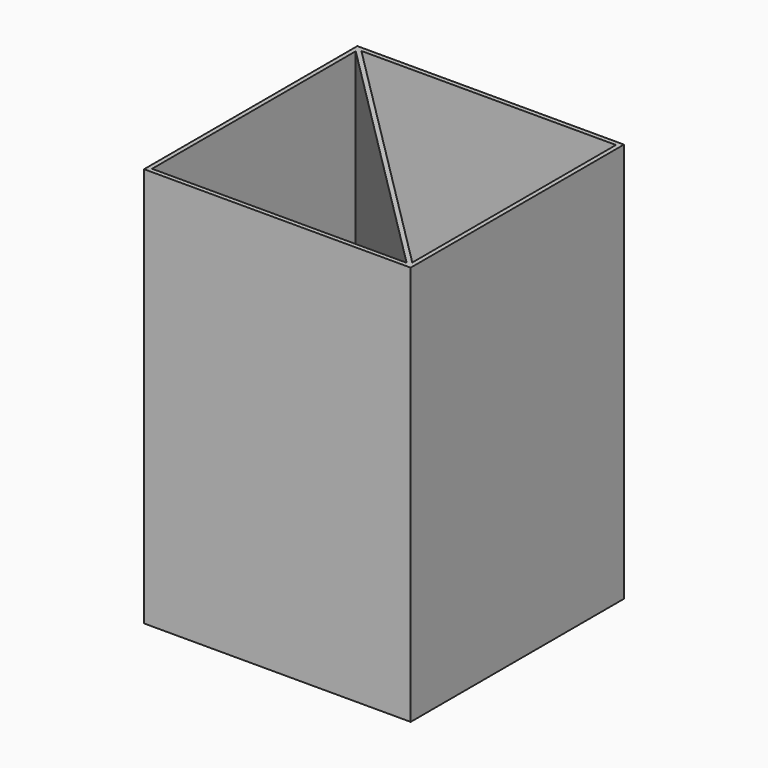
from build123d import *

# Parameters (mm, degrees)
F1_DEPTH = 2.54
F2_DEPTH = 114.3


with BuildPart() as f1:
    # F0 (on Top) → F1 (new body)
    with BuildSketch(Plane.XY):
        Polygon((35.9319743879, -36.83), (-36.83, 35.9319743879), (-36.83, -36.83), align=None)
    extrude(amount=F1_DEPTH)



with BuildPart() as f1b:
    # F0 (on Top) → F1, piece 2 (new body)
    with BuildSketch(Plane.XY):
        Polygon((36.83, 36.83), (-35.9319743879, 36.83), (36.83, -35.9319743879), align=None)
    extrude(amount=F1_DEPTH)


with BuildPart() as f1_1:
    add(f1.part)

    add(f1b.part)  # F2 merges F1b
    # F0 (on Top) → F2 (join)
    with BuildSketch(Plane.XY):
        with BuildLine():
            Line((-37.465, 38.1), (-38.1, 38.1))
            Line((-38.1, 38.1), (-38.1, 37.465))
            ThreePointArc((-38.1, 37.465), (-37.6509871939, 37.6509871939), (-37.465, 38.1))
        make_face()
        with BuildLine():
            Line((-37.2019743879, 38.1), (-37.465, 38.1))
            ThreePointArc((-37.465, 38.1), (-37.6509871939, 37.6509871939), (-38.1, 37.465))
            Line((-38.1, 37.465), (-38.1, 37.2019743879))
            Line((-38.1, 37.2019743879), (-36.83, 35.9319743879))
            Line((-36.83, 35.9319743879), (-36.83, 36.83))
            Line((-36.83, 36.83), (-35.9319743879, 36.83))
            Line((-35.9319743879, 36.83), (-37.2019743879, 38.1))
        make_face()
        Polygon((-36.83, 35.9319743879), (-38.1, 37.2019743879), (-38.1, -38.1), (37.2019743879, -38.1), (35.9319743879, -36.83), (-36.83, -36.83), align=None)
        Polygon((36.83, -35.9319743879), (-35.9319743879, 36.83), (-36.83, 36.83), (-36.83, 35.9319743879), (35.9319743879, -36.83), (36.83, -36.83), align=None)
        Polygon((38.1, 38.1), (-37.2019743879, 38.1), (-35.9319743879, 36.83), (36.83, 36.83), (36.83, -35.9319743879), (38.1, -37.2019743879), align=None)
        with BuildLine():
            Line((38.1, -37.465), (38.1, -37.2019743879))
            Line((38.1, -37.2019743879), (36.83, -35.9319743879))
            Line((36.83, -35.9319743879), (36.83, -36.83))
            Line((36.83, -36.83), (35.9319743879, -36.83))
            Line((35.9319743879, -36.83), (37.2019743879, -38.1))
            Line((37.2019743879, -38.1), (37.465, -38.1))
            ThreePointArc((37.465, -38.1), (37.6509871939, -37.6509871939), (38.1, -37.465))
        make_face()
        with BuildLine():
            Line((38.1, -38.1), (38.1, -37.465))
            ThreePointArc((38.1, -37.465), (37.6509871939, -37.6509871939), (37.465, -38.1))
            Line((37.465, -38.1), (38.1, -38.1))
        make_face()
    extrude(amount=F2_DEPTH)


solid = f1_1.part
